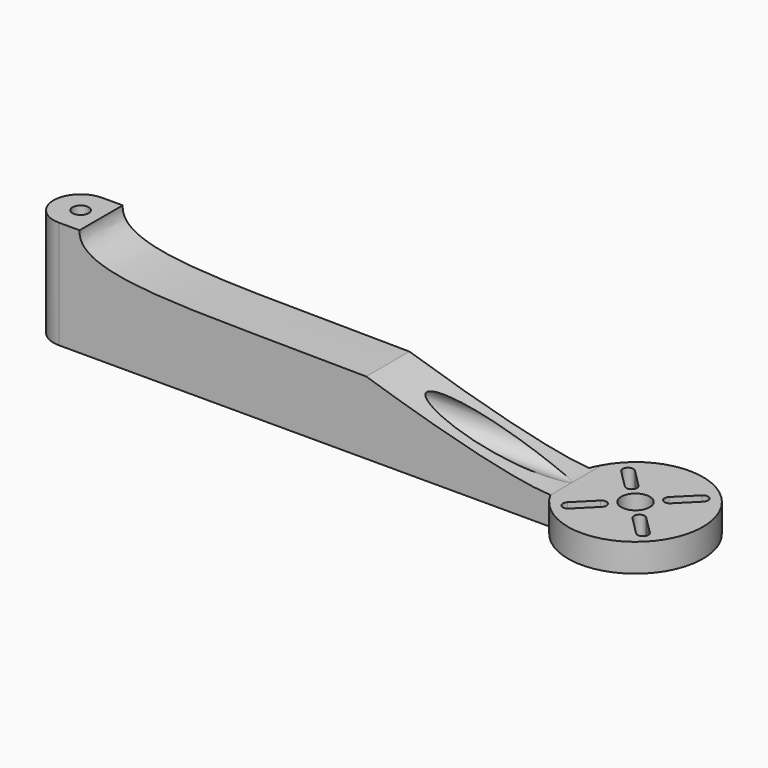
from build123d import *

# Parameters (mm, degrees)
F0_R          = 1.5
F0_R_2        = 2.6412895019
F1_DEPTH      = 20
F3_DEPTH      = 25
F3_DEPTH_BACK = 25
F6_R          = 3
F9_DEPTH      = 25


with BuildPart() as f1:
    # F0 (on Top) → F1 (new body)
    with BuildSketch(Plane.XY):
        with BuildLine():
            Line((-139.1577050821, 53.1693232265), (-48.1315898414, 53.1693232265))
            ThreePointArc((-48.1315898414, 53.1693232265), (-24.7040865671, 60.2304450376), (-48.9954501741, 63.1693232265))
            Line((-48.9954501741, 63.1693232265), (-139.1577050821, 63.1693232265))
            ThreePointArc((-139.1577050821, 63.1693232265), (-144.1577050821, 58.1693232265), (-139.1577050821, 53.1693232265))
        make_face()
        with Locations((-139.1577050821, 58.1693232265)):
            Circle(F0_R, mode=Mode.SUBTRACT)
        with BuildLine():
            ThreePointArc((-43.3736355328, 51.5244823211), (-44.7878490952, 51.5244823211), (-44.7878490952, 52.9386958835))
            Line((-44.7878490952, 52.9386958835), (-41.4003457692, 56.3261992095))
            ThreePointArc((-41.4003457692, 56.3261992095), (-39.9861322069, 56.3261992095), (-39.9861322069, 54.9119856471))
            Line((-39.9861322069, 54.9119856471), (-43.3736355328, 51.5244823211))
        make_face(mode=Mode.SUBTRACT)
        with BuildLine():
            ThreePointArc((-29.527561069, 52.9386958835), (-29.527561069, 51.5244823211), (-30.9417746314, 51.5244823211))
            Line((-30.9417746314, 51.5244823211), (-34.3292779574, 54.9119856471))
            ThreePointArc((-34.3292779574, 54.9119856471), (-34.3292779574, 56.3261992095), (-32.915064395, 56.3261992095))
            Line((-32.915064395, 56.3261992095), (-29.527561069, 52.9386958835))
        make_face(mode=Mode.SUBTRACT)
        with Locations((-37.1577050821, 59.1546263342)):
            Circle(F0_R_2, mode=Mode.SUBTRACT)
        with BuildLine():
            Line((-41.4003457692, 61.9830534589), (-44.7878490952, 65.3705567849))
            ThreePointArc((-44.7878490952, 65.3705567849), (-44.7878490952, 66.7847703473), (-43.3736355328, 66.7847703473))
            Line((-43.3736355328, 66.7847703473), (-39.9861322069, 63.3972670213))
            ThreePointArc((-39.9861322069, 63.3972670213), (-39.9861322069, 61.9830534589), (-41.4003457692, 61.9830534589))
        make_face(mode=Mode.SUBTRACT)
        with BuildLine():
            ThreePointArc((-30.9417746314, 66.7847703473), (-29.527561069, 66.7847703473), (-29.527561069, 65.3705567849))
            Line((-29.527561069, 65.3705567849), (-32.915064395, 61.983053459))
            ThreePointArc((-32.915064395, 61.9830534589), (-34.3292779574, 61.9830534589), (-34.3292779574, 63.3972670213))
            Line((-34.3292779574, 63.3972670213), (-30.9417746314, 66.7847703473))
        make_face(mode=Mode.SUBTRACT)
    extrude(amount=F1_DEPTH)

    # F2 (on face) → F3 (cut, two sides)
    with BuildSketch(Plane.XZ.offset(-53.1693232265)) as f3_sk:
        with BuildLine():
            add(Edge.make_bspline(
                [(-48.1315898414, 5.1997262053), (-55.5737955735, 5.517366778), (-70.0693075174, 9.5402547737), (-82.2478533544, 13.4277092293)],
                knots=[0, 0, 0, 0, 32.5655157772, 32.5655157772, 32.5655157772, 32.5655157772], degree=3))
            Line((-48.1315898414, 5.1997262053), (66.0970867342, 5.1997262053))
            Line((66.0970867342, 5.1997262053), (64.3360104363, 23.0218202323))
            Line((64.3360104363, 23.0218202323), (-14.16737711, 23.9689107984))
            Line((-14.16737711, 23.9689107984), (-21.0809869127, 20))
            Line((-21.0809869127, 20), (-48.1315898414, 24.3437178433))
            Line((-48.1315898414, 24.3437178433), (-48.1315898414, 13.4277092293))
            Line((-48.1315898414, 13.4277092293), (-82.2478533544, 13.4277092293))
        make_face()
    extrude(amount=-F3_DEPTH, mode=Mode.SUBTRACT)
    extrude(f3_sk.sketch, amount=F3_DEPTH_BACK, mode=Mode.SUBTRACT)

    # F7: sweep along a path in F4
    with BuildLine(Plane.XY.offset(5.1997262053)) as f7_path:
        Line((-61.2067505717, 58.1693232265), (-86.7135846391, 58.1693232265))
        Line((-86.7135846391, 58.1693232265), (-125.319480896, 58.1693232265))
        Line((-125.319480896, 58.1693232265), (-138.9607042074, 75.3938183188))
    # F6 (on face) → F7 (sweep, cut)
    with BuildSketch(Plane.YZ.offset(-48.1315898414)):
        with Locations((58.2011528313, 8.1997262053)):
            Circle(F6_R)
    sweep(path=f7_path.line, transition=Transition.RIGHT, mode=Mode.SUBTRACT)

    # F8 (on face) → F9 (cut)
    with BuildSketch(Plane.XZ.offset(-53.1693232265)):
        with BuildLine():
            add(Edge.make_bspline(
                [(-82.2478533544, 13.4277092293), (-114.2476946115, 13.955491595), (-135.7881426811, 12.4776158482), (-135.3534758091, 20)],
                knots=[0, 0, 0, 0, 53.5107666015, 53.5107666015, 53.5107666015, 53.5107666015], degree=3))
            Line((-82.2478533544, 13.4277092293), (-32.9686515033, 11.7128845304))
            Line((-32.9686515033, 11.7128845304), (-32.9686515033, 37.384595722))
            Line((-32.9686515033, 37.384595722), (-135.3534758091, 20))
        make_face()
    extrude(amount=-F9_DEPTH, mode=Mode.SUBTRACT)


solid = f1.part
